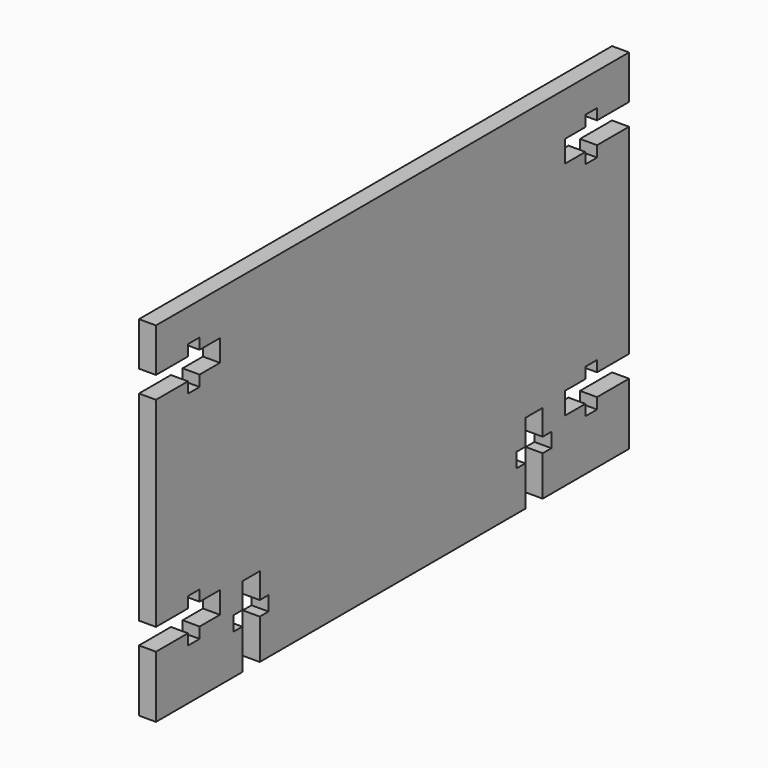
from build123d import *

# Parameters (mm, degrees)
F1_DEPTH = 2.9718


with BuildPart() as f1:
    # F0 (on Right) → F1 (new body)
    with BuildSketch(Plane.YZ):
        Polygon((0, 10.795), (0, 0), (18.8468, 0), (18.8468, 6.985), (16.9418, 6.985), (16.9418, 9.525), (18.8468, 9.525), (18.8468, 13.97), (22.6568, 13.97), (22.6568, 9.525), (24.5618, 9.525), (24.5618, 6.985), (22.6568, 6.985), (22.6568, 0), (80.6196, 0), (80.6196, 6.985), (78.7146, 6.985), (78.7146, 9.525), (80.6196, 9.525), (80.6196, 13.97), (84.4296, 13.97), (84.4296, 9.525), (86.3346, 9.525), (86.3346, 6.985), (84.4296, 6.985), (84.4296, 0), (103.2764, 0), (103.2764, 10.795), (96.2914, 10.795), (96.2914, 8.89), (93.7514, 8.89), (93.7514, 10.795), (89.3064, 10.795), (89.3064, 14.605), (93.7514, 14.605), (93.7514, 16.51), (96.2914, 16.51), (96.2914, 14.605), (103.2764, 14.605), (103.2764, 49.53), (96.2914, 49.53), (96.2914, 47.625), (93.7514, 47.625), (93.7514, 49.53), (89.3064, 49.53), (89.3064, 53.34), (93.7514, 53.34), (93.7514, 55.245), (96.2914, 55.245), (96.2914, 53.34), (103.2764, 53.34), (103.2764, 60.96), (0, 60.96), (0, 53.34), (6.985, 53.34), (6.985, 55.245), (9.525, 55.245), (9.525, 53.34), (13.97, 53.34), (13.97, 49.53), (9.525, 49.53), (9.525, 47.625), (6.985, 47.625), (6.985, 49.53), (0, 49.53), (0, 14.605), (6.985, 14.605), (6.985, 16.51), (9.525, 16.51), (9.525, 14.605), (13.97, 14.605), (13.97, 10.795), (9.525, 10.795), (9.525, 8.89), (6.985, 8.89), (6.985, 10.795), align=None)
    extrude(amount=F1_DEPTH)


solid = f1.part
